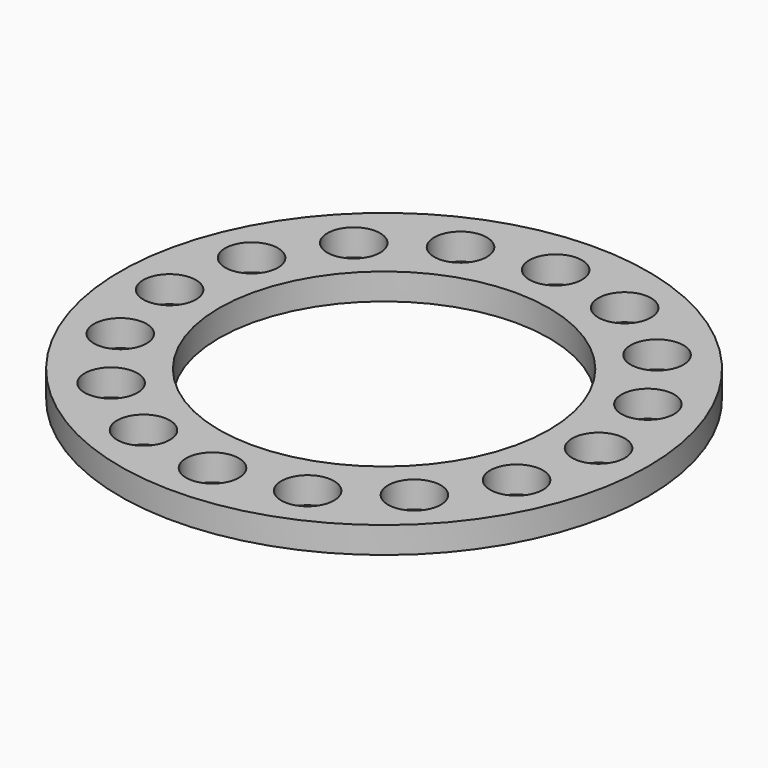
from build123d import *

# Parameters (mm, degrees)
F0_R     = 20
F0_R_2   = 2
F0_R_3   = 12.5
F1_DEPTH = 2


with BuildPart() as f1:
    # F0 (on Top) → F1 (new body)
    with BuildSketch(Plane.XY):
        Circle(F0_R)
        with Locations((-11.490485, -11.490485)):
            Circle(F0_R_2, mode=Mode.SUBTRACT)
        with Locations((-6.218606, -15.013042)):
            Circle(F0_R_2, mode=Mode.SUBTRACT)
        with Locations((-15.013042, -6.218606)):
            Circle(F0_R_2, mode=Mode.SUBTRACT)
        with Locations((0, -16.25)):
            Circle(F0_R_2, mode=Mode.SUBTRACT)
        with Locations((6.218606, -15.013042)):
            Circle(F0_R_2, mode=Mode.SUBTRACT)
        with Locations((11.490485, -11.490485)):
            Circle(F0_R_2, mode=Mode.SUBTRACT)
        with Locations((15.013042, -6.218606)):
            Circle(F0_R_2, mode=Mode.SUBTRACT)
        with Locations((-16.25, 0)):
            Circle(F0_R_2, mode=Mode.SUBTRACT)
        with Locations((-15.013042, 6.218606)):
            Circle(F0_R_2, mode=Mode.SUBTRACT)
        with Locations((-11.490485, 11.490485)):
            Circle(F0_R_2, mode=Mode.SUBTRACT)
        with Locations((-6.218606, 15.013042)):
            Circle(F0_R_2, mode=Mode.SUBTRACT)
        Circle(F0_R_3, mode=Mode.SUBTRACT)
        with Locations((16.25, 0)):
            Circle(F0_R_2, mode=Mode.SUBTRACT)
        with Locations((15.013042, 6.218606)):
            Circle(F0_R_2, mode=Mode.SUBTRACT)
        with Locations((0, 16.25)):
            Circle(F0_R_2, mode=Mode.SUBTRACT)
        with Locations((6.218606, 15.013042)):
            Circle(F0_R_2, mode=Mode.SUBTRACT)
        with Locations((11.490485, 11.490485)):
            Circle(F0_R_2, mode=Mode.SUBTRACT)
    extrude(amount=F1_DEPTH)


solid = f1.part
